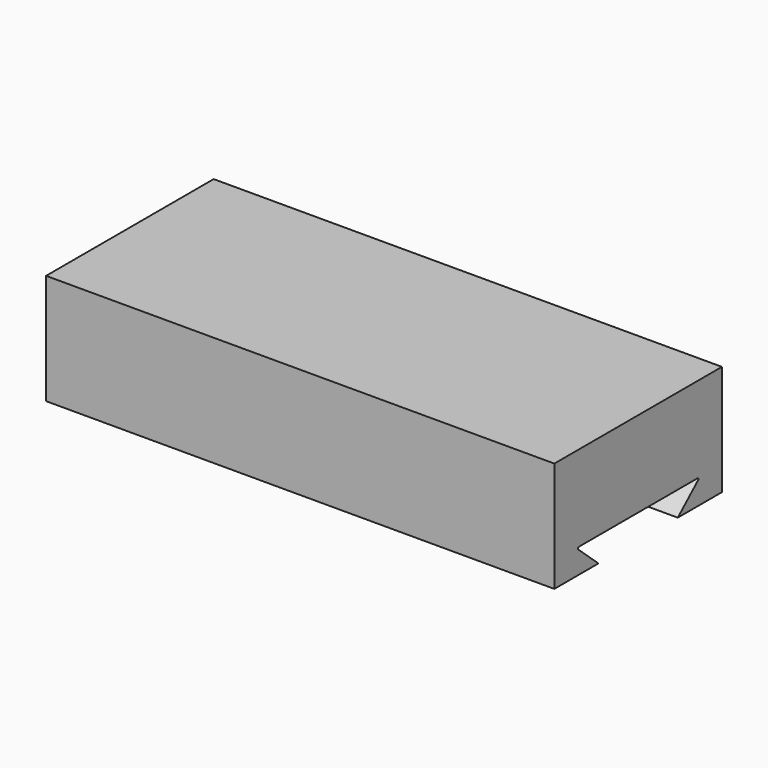
from build123d import *

# Parameters (mm, degrees)
F0_W     = 116.989415
F0_H     = 48.217313
F1_DEPTH = 25.4
F3_DEPTH = 116.990415
F4_R     = 0.254


with BuildPart() as f1:
    # F0 (on Top) → F1 (new body)
    with BuildSketch(Plane.XY):
        with Locations((2.449287, 1.776933)):
            Rectangle(F0_W, F0_H)
    extrude(amount=F1_DEPTH)

    # F2 (on face) → F3 (cut, through all)
    with BuildSketch(Plane.YZ.offset(60.943995)):
        Polygon((-15.981724, 5.67151), (-9.631724, 0), (13.185589, 0), (19.535589, 5.67151), align=None)
    extrude(amount=-F3_DEPTH, mode=Mode.SUBTRACT)

    # F4
    f4_edges = [f1.edges().sort_by_distance(p)[0] for p in [
        (2.449287, -15.981724, 5.67151),
        (2.449287, 19.535589, 5.67151),
    ]]
    fillet(f4_edges, radius=F4_R)


solid = f1.part
